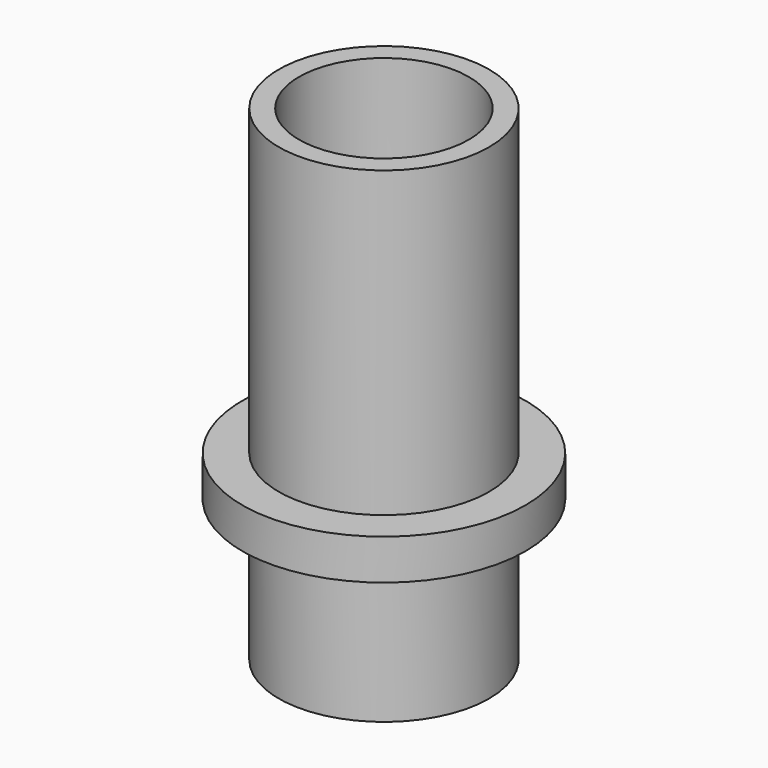
from build123d import *

# Parameters (mm, degrees)
F0_R     = 3.5
F1_DEPTH = 0.5
F2_R     = 2.6
F2_R_2   = 2.1
F3_DEPTH = 7.5
F4_R     = 2.6
F4_R_2   = 2.1
F5_DEPTH = 3.5


with BuildPart() as f1:
    # F0 (on Top) → F1 (new body, symmetric)
    with BuildSketch(Plane.XY):
        Circle(F0_R)
    extrude(amount=F1_DEPTH, both=True)

    # F2 (on face) → F3 (join)
    with BuildSketch(Plane.XY.offset(0.5)):
        Circle(F2_R)
        Circle(F2_R_2, mode=Mode.SUBTRACT)
    extrude(amount=F3_DEPTH)

    # F4 (on face) → F5 (join)
    with BuildSketch(Plane(origin=(0, 0, -0.5), x_dir=(1, 0, 0), z_dir=(0, 0, -1))):
        Circle(F4_R)
        Circle(F4_R_2, mode=Mode.SUBTRACT)
    extrude(amount=F5_DEPTH)


solid = f1.part
